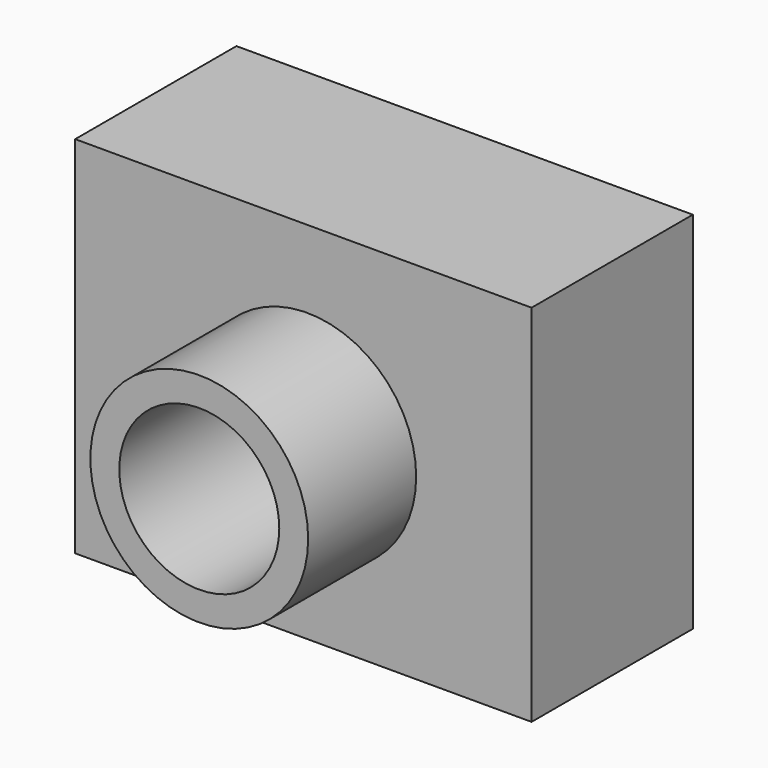
from build123d import *

# Parameters (mm, degrees)
F0_W     = 57.522915
F0_H     = 45.961969
F0_R     = 13.727632
F1_DEPTH = 25.4
F2_DEPTH = 25.4
F0_R_2   = 10.083069
F3_DEPTH = 42.418


with BuildPart() as f1:
    # F0 (on Front) → F1 (new body)
    with BuildSketch(Plane.XZ):
        with Locations((28.761457, 22.980984)):
            Rectangle(F0_W, F0_H)
        with Locations((29.250471, 22.477599)):
            Circle(F0_R, mode=Mode.SUBTRACT)
    extrude(amount=F1_DEPTH)

    # F0 (on Front) → F2 (join)
    with BuildSketch(Plane.XZ):
        with Locations((28.761457, 22.980984)):
            Rectangle(F0_W, F0_H)
        with Locations((29.250471, 22.477599)):
            Circle(F0_R, mode=Mode.SUBTRACT)
    extrude(amount=F2_DEPTH)

    # F0 (on Front) → F3 (join)
    with BuildSketch(Plane.XZ):
        with Locations((29.250471, 22.477599)):
            Circle(F0_R)
        with Locations((29.250471, 22.477599)):
            Circle(F0_R_2, mode=Mode.SUBTRACT)
    extrude(amount=F3_DEPTH)


solid = f1.part
